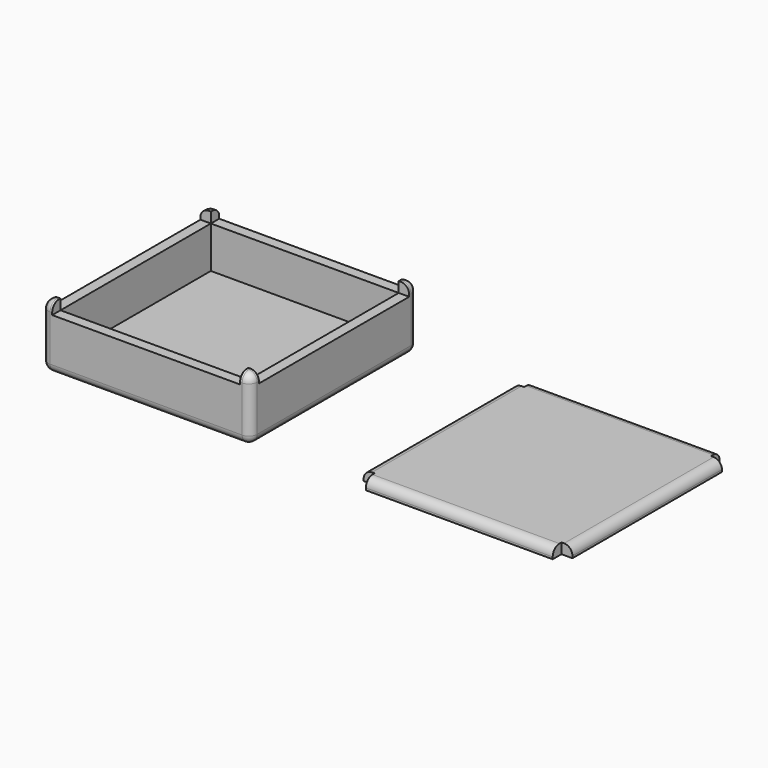
from build123d import *

# Parameters (mm, degrees)
SKETCH_W        = 100
SKETCH_H        = 100
PAD_DEPTH       = 30
SKETCH001_W     = 90
SKETCH001_H     = 90
POCKET_DEPTH    = 25
POCKET001_DEPTH = 5
FILLET_R        = 4
FILLET001_R     = 4
FILLET003_R     = 4
SKETCH002_W     = 100
SKETCH002_H     = 100
PAD001_DEPTH    = 5
SKETCH004_W     = 5.25
SKETCH004_H     = 5.25
POCKET002_DEPTH = 5.001
FILLET002_R     = 4


with BuildPart() as boxbase:
    # Sketch → Pad (new body)
    with BuildSketch(Plane.XY):
        Rectangle(SKETCH_W, SKETCH_H)
    extrude(amount=PAD_DEPTH)

    # Sketch001 (on Face6 of Pad) → Pocket (cut)
    with BuildSketch(Plane.XY.offset(30)):
        Rectangle(SKETCH001_W, SKETCH001_H)
    extrude(amount=-POCKET_DEPTH, mode=Mode.SUBTRACT)

    # Sketch003 (on Face5 of Pocket) → Pocket001 (cut)
    with BuildSketch(Plane.XY.offset(30)):
        Polygon((-45, 50), (-45, 45), (-50, 45), (-50, -45), (-45, -45), (-45, -50), (45, -50), (45, -45), (50, -45), (50, 45), (45, 45), (45, 50), align=None)
    extrude(amount=-POCKET001_DEPTH, mode=Mode.SUBTRACT)

    # Fillet
    fillet_edges = [boxbase.edges().sort_by_distance(p)[0] for p in [
        (50, 50, 15),
        (50, -50, 15),
        (-50, -50, 15),
        (-50, 50, 15),
    ]]
    fillet(fillet_edges, radius=FILLET_R)

    # Fillet001
    fillet001_edges = [boxbase.edges().sort_by_distance(p)[0] for p in [
        (-48.828427, 48.828427, 30),
        (48.828427, 48.828427, 30),
        (48.828427, -48.828427, 30),
        (-48.828427, -48.828427, 30),
    ]]
    fillet(fillet001_edges, radius=FILLET001_R)

    # Fillet003
    fillet003_edges = [boxbase.edges().sort_by_distance(p)[0] for p in [
        (-48.828427, -48.828427, 0),
        (0, -50, 0),
        (48.828427, -48.828427, 0),
        (50, 0, 0),
        (48.828427, 48.828427, 0),
        (0, 50, 0),
        (-48.828427, 48.828427, 0),
        (-50, 0, 0),
    ]]
    fillet(fillet003_edges, radius=FILLET003_R)


with BuildPart() as boxtop:
    # Sketch002 → Pad001 (new body)
    with BuildSketch(Plane.XY):
        with Locations((150, 0)):
            Rectangle(SKETCH002_W, SKETCH002_H)
    extrude(amount=PAD001_DEPTH)

    # Sketch004 (on Face6 of Pad001) → Pocket002 (cut, through all)
    with BuildSketch(Plane.XY.offset(5)):
        with Locations((102.625, 47.375)):
            Rectangle(SKETCH004_W, SKETCH004_H)
        with Locations((197.375, 47.375)):
            Rectangle(SKETCH004_W, SKETCH004_H)
        with Locations((102.625, -47.375)):
            Rectangle(SKETCH004_W, SKETCH004_H)
        with Locations((197.375, -47.375)):
            Rectangle(SKETCH004_W, SKETCH004_H)
    extrude(amount=-POCKET002_DEPTH, mode=Mode.SUBTRACT)

    # Fillet002
    fillet002_edges = [boxtop.edges().sort_by_distance(p)[0] for p in [
        (150, 50, 5),
        (200, 0, 5),
        (150, -50, 5),
        (100, 0, 5),
    ]]
    fillet(fillet002_edges, radius=FILLET002_R)


solid = Compound([boxbase.part, boxtop.part])
